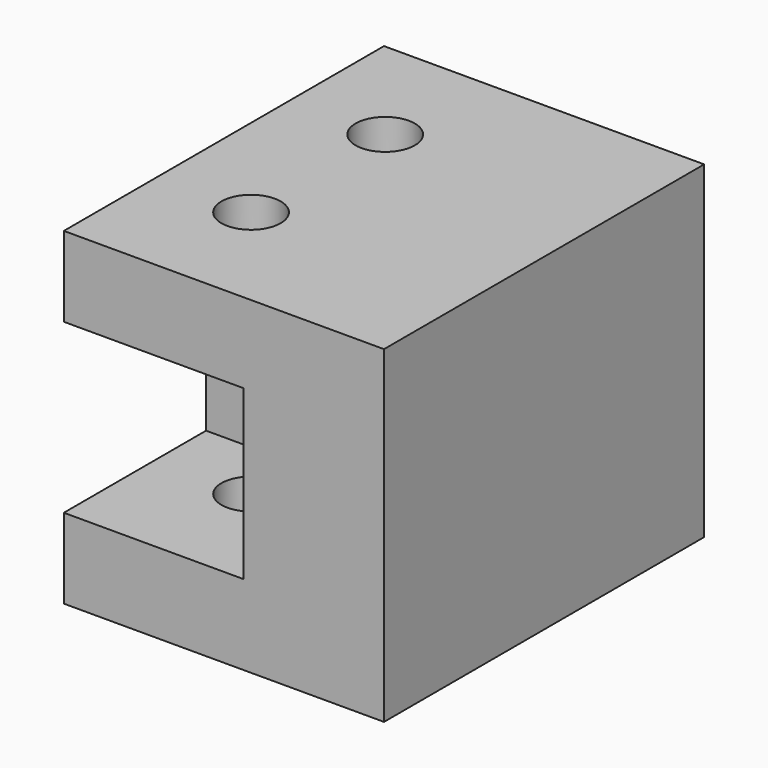
from build123d import *

# Parameters (mm, degrees)
F0_W     = 20
F0_H     = 25
F0_R     = 1.85
F1_DEPTH = 5
F2_W     = 11.216741
F2_H     = 3.175
F3_DEPTH = 10.5
F4_W     = 20
F4_H     = 25
F4_R     = 1.85
F5_DEPTH = 5


with BuildPart() as f1:
    # F0 (on Top) → F1 (new body)
    with BuildSketch(Plane.XY):
        with Locations((-17.203618, -5.25)):
            Rectangle(F0_W, F0_H)
        with Locations((-21.303618, -10.5)):
            Circle(F0_R, mode=Mode.SUBTRACT)
        with Locations((-21.303618, 0)):
            Circle(F0_R, mode=Mode.SUBTRACT)
    extrude(amount=F1_DEPTH)

    # F2 (on face) → F3 (join)
    with BuildSketch(Plane.XY.offset(5)):
        with Locations((-21.595247, -5.058202)):
            Rectangle(F2_W, F2_H)
        Polygon((-7.203618, -17.75), (-7.203618, 7.25), (-15.986877, 7.25), (-15.986877, -3.470702), (-15.986877, -6.645702), (-15.986877, -17.75), align=None)
    extrude(amount=F3_DEPTH)

    # F4 (on face) → F5 (join)
    with BuildSketch(Plane.XY.offset(15.5)):
        with Locations((-17.203618, -5.25)):
            Rectangle(F4_W, F4_H)
        with Locations((-21.298807, -10.511792)):
            Circle(F4_R, mode=Mode.SUBTRACT)
        with Locations((-21.3289, 0)):
            Circle(F4_R, mode=Mode.SUBTRACT)
    extrude(amount=F5_DEPTH)


solid = f1.part
